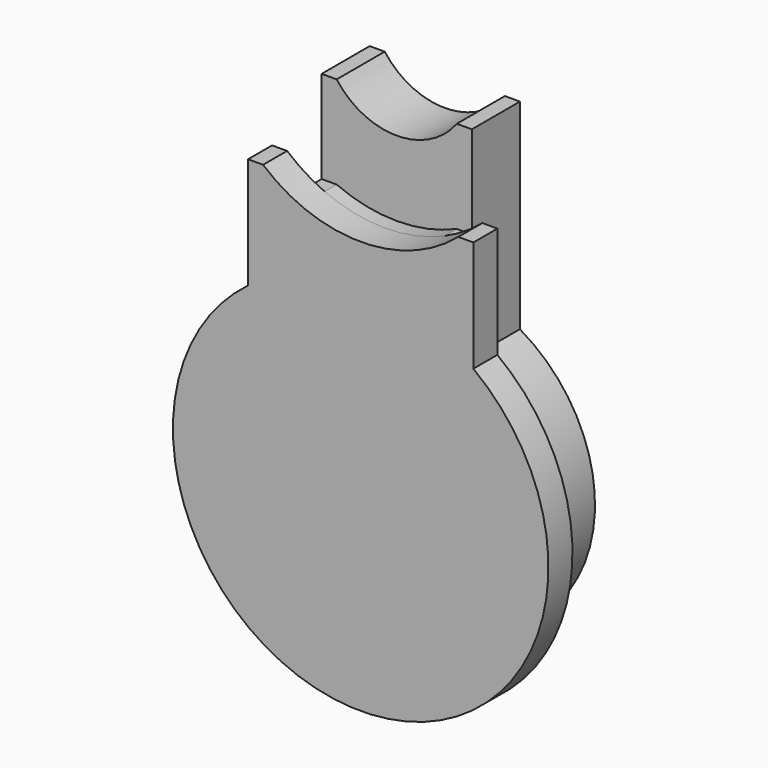
from build123d import *

# Parameters (mm, degrees)
EXTRUDE028_DEPTH = 2
EXTRUDE029_DEPTH = 1
EXTRUDE027_DEPTH = 4


with BuildPart() as hangerlockfront:
    # Sketch037 → Extrude028 (new body)
    with BuildSketch(Plane.XZ):
        with BuildLine():
            ThreePointArc((-7.5, 10), (0, -12.5), (7.5, 10))
            Line((7.5, 10), (7.5, 17.400658))
            Line((6.5, 17.400658), (7.5, 17.400658))
            ThreePointArc((-6.5, 17.400658), (0, 15), (6.5, 17.400658))
            Line((-7.5, 17.400658), (-6.5, 17.400658))
            Line((-7.5, 10), (-7.5, 17.400658))
        make_face()
    extrude(amount=EXTRUDE028_DEPTH)


with BuildPart() as hangerlockfront_1:
    # Extrude028 placement: moved
    add(hangerlockfront.part.moved(Location((0, -5, 0))))


with BuildPart() as hangerlockspacer:
    # Sketch038 → Extrude029 (new body)
    with BuildSketch(Plane.XZ):
        with BuildLine():
            ThreePointArc((-5, 8.660254), (0, -10), (5, 8.660254))
            Line((5, 8.660254), (5, 15.834849))
            Line((4, 15.834849), (5, 15.834849))
            ThreePointArc((-4, 15.834849), (0, 15), (4, 15.834849))
            Line((-5, 15.834849), (-4, 15.834849))
            Line((-5, 8.660254), (-5, 15.834849))
        make_face()
    extrude(amount=EXTRUDE029_DEPTH)


with BuildPart() as hangerlockspacer_1:
    # Extrude029 placement: moved
    add(hangerlockspacer.part.moved(Location((0, -4, 0))))


with BuildPart() as hangerlockleft:
    # Sketch036 → Extrude027 (new body)
    with BuildSketch(Plane.XZ):
        with BuildLine():
            ThreePointArc((-5, 8.660254), (0, -10), (5, 8.660254))
            Line((5, 8.660254), (5, 22))
            Line((4, 22), (5, 22))
            ThreePointArc((-4, 22), (0, 20), (4, 22))
            Line((-5, 22), (-4, 22))
            Line((-5, 8.660254), (-5, 22))
        make_face()
    extrude(amount=EXTRUDE027_DEPTH)

    # Fusion001: union HangerLockFront, HangerLockSpacer
    add(hangerlockfront_1.part)
    add(hangerlockspacer_1.part)


with BuildPart() as hangerlockleft_1:
    # Fusion001 placement: moved
    add(hangerlockleft.part.moved(Location((-70, 40, 200))))


solid = hangerlockleft_1.part
